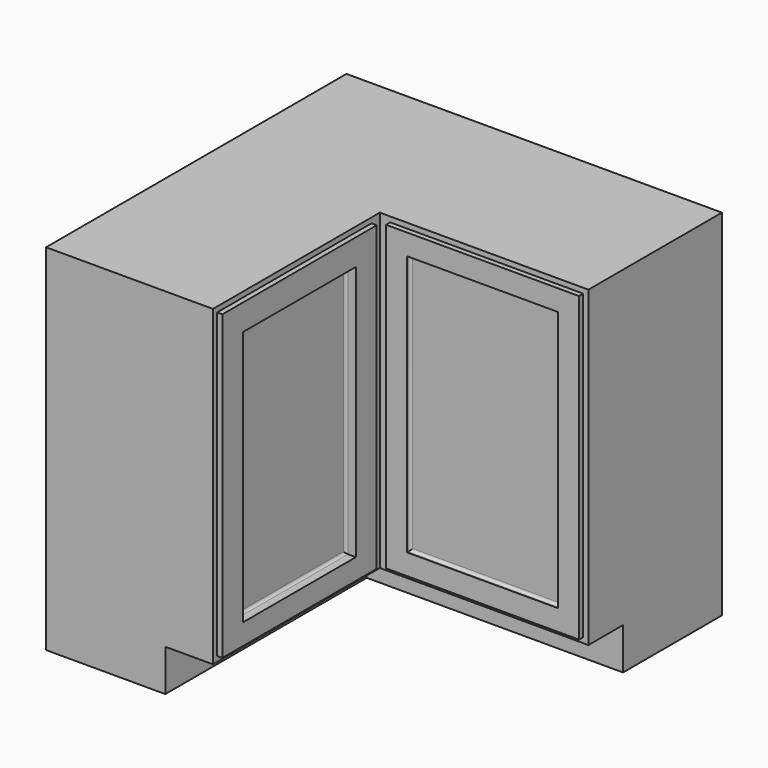
from build123d import *

# Parameters (mm, degrees)
F1_DEPTH  = 863.6
F2_W      = 342.9
F2_H      = 622.3
F3_DEPTH  = 25.4
F4_R      = 6.35
F5_W      = 368.3
F5_H      = 635
F6_DEPTH  = 9.652
F7_R      = 6.35
F9_DEPTH  = 101.6
F10_W     = 495.3
F10_H     = 762
F10_W_2   = 469.9
F10_H_2   = 736.6
F11_DEPTH = 12.7
F12_W     = 508
F12_H     = 762
F12_W_2   = 469.9
F12_H_2   = 736.6
F13_DEPTH = 12.7


with BuildPart() as f1:
    # F0 (on Top) → F1 (new body)
    with BuildSketch(Plane.XY):
        Polygon((0, 914.4), (0, 0), (419.1, 0), (419.1, 495.3), (914.4, 495.3), (914.4, 914.4), align=None)
    extrude(amount=F1_DEPTH)

    # F2 (on face) → F3 (cut)
    with BuildSketch(Plane.YZ.offset(419.1)):
        with Locations((247.65, 476.25)):
            Rectangle(F2_W, F2_H)
    extrude(amount=-F3_DEPTH, mode=Mode.SUBTRACT)

    # F4
    f4_edges = [f1.edges().sort_by_distance(p)[0] for p in [
        (393.7, 419.1, 476.25),
        (393.7, 247.65, 787.4),
        (393.7, 76.2, 476.25),
        (393.7, 247.65, 165.1),
    ]]
    fillet(f4_edges, radius=F4_R)

    # F5 (on face) → F6 (cut)
    with BuildSketch(Plane.XZ.offset(-495.3)):
        with Locations((666.75, 482.6)):
            Rectangle(F5_W, F5_H)
    extrude(amount=-F6_DEPTH, mode=Mode.SUBTRACT)

    # F7
    f7_edges = [f1.edges().sort_by_distance(p)[0] for p in [
        (850.9, 504.952, 482.6),
        (666.75, 504.952, 800.1),
        (482.6, 504.952, 482.6),
        (666.75, 504.952, 165.1),
    ]]
    fillet(f7_edges, radius=F7_R)

    # F8 (on face) → F9 (cut)
    with BuildSketch(Plane(origin=(0, 0, 0), x_dir=(1, 0, 0), z_dir=(0, 0, -1))):
        Polygon((419.1, -495.3), (419.1, 0), (290.321976, 0), (290.321976, -613.257587), (914.4, -613.257587), (914.4, -495.3), align=None)
    extrude(amount=-F9_DEPTH, mode=Mode.SUBTRACT)

    # F10 (on face) → F11 (cut)
    with BuildSketch(Plane.YZ.offset(419.1)):
        with Locations((247.65, 482.6)):
            Rectangle(F10_W, F10_H)
        with Locations((247.65, 482.6)):
            Rectangle(F10_W_2, F10_H_2, mode=Mode.SUBTRACT)
    extrude(amount=-F11_DEPTH, mode=Mode.SUBTRACT)

    # F12 (on face) → F13 (cut)
    with BuildSketch(Plane.XZ.offset(-495.3)):
        with Locations((660.4, 482.6)):
            Rectangle(F12_W, F12_H)
        with Locations((666.75, 482.6)):
            Rectangle(F12_W_2, F12_H_2, mode=Mode.SUBTRACT)
    extrude(amount=-F13_DEPTH, mode=Mode.SUBTRACT)


solid = f1.part
